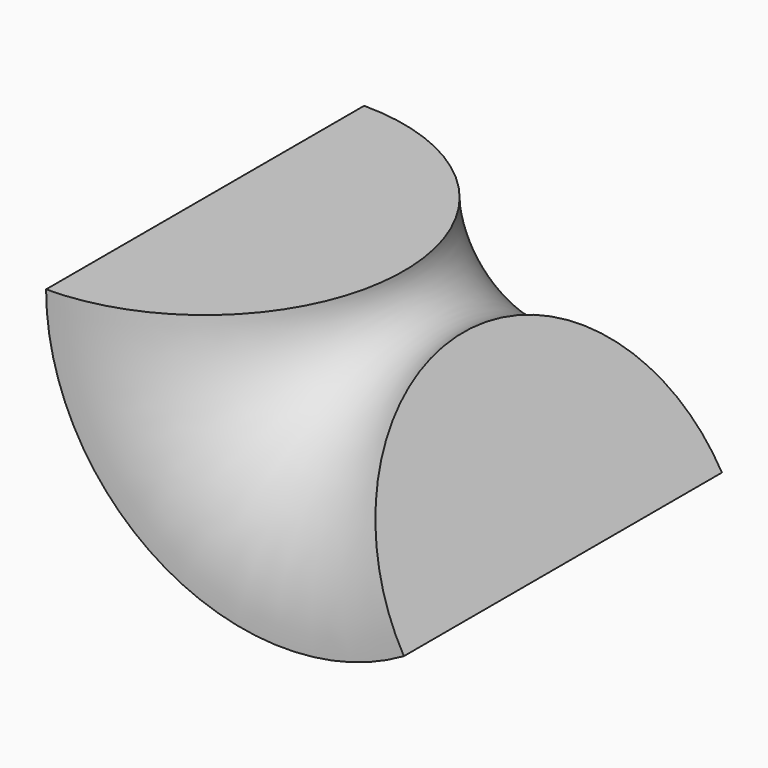
from build123d import *

# Parameters (mm, degrees)
F1_ANGLE = 120


with BuildPart() as f1:
    # F0 (on Top) → F1 (revolve)
    with BuildSketch(Plane.XY):
        with BuildLine():
            ThreePointArc((2.420889, -5), (4.920889, -2.5), (2.420889, 0))
            Line((2.420889, 0), (2.420889, -5))
        make_face()
    revolve(axis=Axis((5.420889, -7.661184, 0), (0, -1, 0)), revolution_arc=F1_ANGLE)


solid = f1.part
